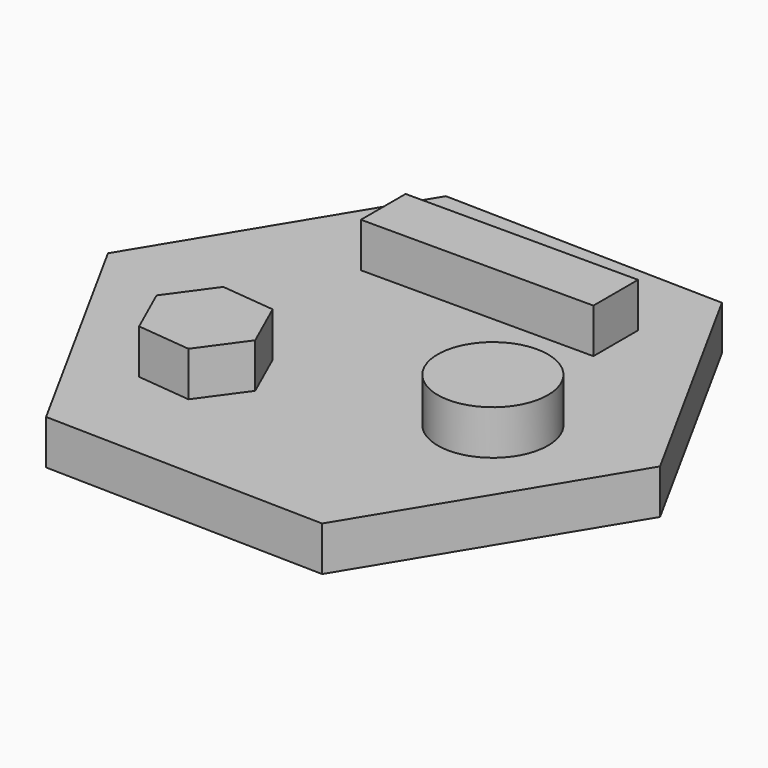
from build123d import *

# Parameters (mm, degrees)
PAD_DEPTH    = 10
SKETCH001_R  = 12.386876
SKETCH001_W  = 52.232122
SKETCH001_H  = 12.547379
PAD001_DEPTH = 10


with BuildPart() as part:
    # Sketch → Pad (new body)
    with BuildSketch(Plane.XY):
        Polygon((30.372211, -55.345623), (63.116821, -1.369705), (32.74461, 53.975918), (-30.372211, 55.345623), (-63.116821, 1.369705), (-32.74461, -53.975918), align=None)
    extrude(amount=PAD_DEPTH)

    # Sketch001 (on Face8 of Pad) → Pad001 (join)
    with BuildSketch(Plane.XY.offset(10)):
        with Locations((30.440666, -7.472315)):
            Circle(SKETCH001_R)
        with Locations((1.698405, 30.315723)):
            Rectangle(SKETCH001_W, SKETCH001_H)
        Polygon((-17.414461, -33.150673), (-10.291936, -23.310478), (-15.252532, -12.222093), (-27.335653, -10.973903), (-34.458178, -20.814098), (-29.497582, -31.902483), align=None)
    extrude(amount=PAD001_DEPTH)


solid = part.part
